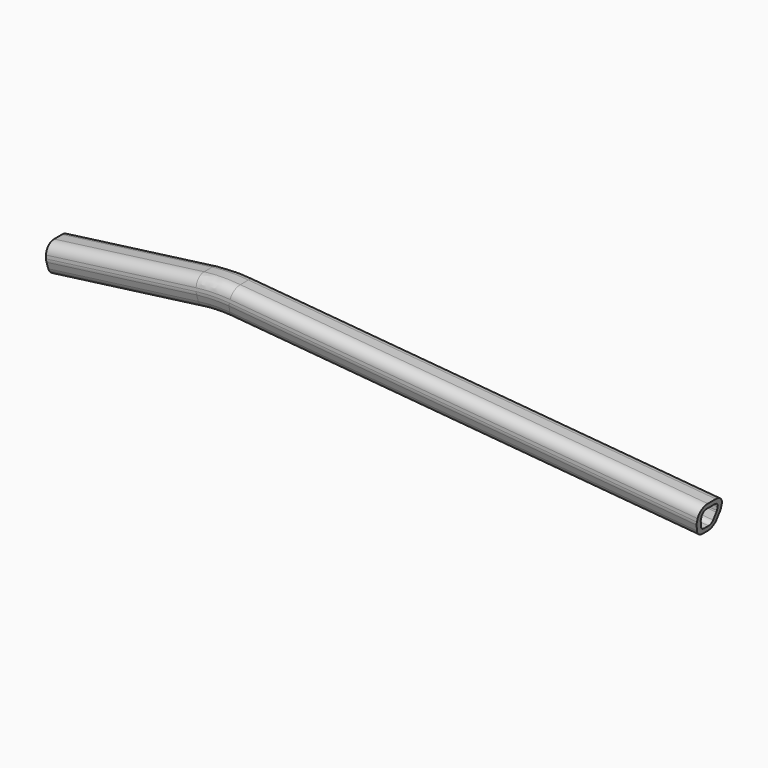
from build123d import *


with BuildPart() as f2:
    # F2: sweep along a path in F0
    with BuildLine(Plane.XZ) as f2_path:
        Line((0, 0), (150, 20))
        ThreePointArc((150, 20), (166.4091739376, 21.2769270288), (182.8594678141, 20.7483787065))
        Line((182.8594678141, 20.7483787065), (650, -20))
    # F1 (on Right) → F2 (sweep)
    with BuildSketch(Plane.YZ):
        with BuildLine():
            ThreePointArc((15, 5), (12.0710678119, 12.0710678119), (5, 15))
            Line((5, 15), (-5, 15))
            ThreePointArc((-5, 15), (-12.0710678119, 12.0710678119), (-15, 5))
            Line((-15, 5), (-15, 1.6227766017))
            ThreePointArc((-15, 1.6227766017), (-14.8708745764, 0.0209541716), (-14.4868329805, -1.5395010585))
            Line((-14.4868329805, -1.5395010585), (-12.2792407799, -8.1622776602))
            ThreePointArc((-12.2792407799, -8.1622776602), (-8.6395106461, -13.1124218518), (-2.7924077994, -15))
            Line((-2.7924077994, -15), (2.7924077994, -15))
            ThreePointArc((2.7924077994, -15), (8.6395106461, -13.1124218518), (12.2792407799, -8.1622776602))
            Line((12.2792407799, -8.1622776602), (14.4868329805, -1.5395010585))
            ThreePointArc((14.4868329805, -1.5395010585), (14.8708745764, 0.0209541716), (15, 1.6227766017))
            Line((15, 1.6227766017), (15, 5))
        make_face()
        with BuildLine():
            ThreePointArc((5, 10), (8.5355339059, 8.5355339059), (10, 5))
            Line((10, 5), (10, 1.6227766017))
            ThreePointArc((10, 1.6227766017), (9.9354372882, 0.8218653866), (9.7434164903, 0.0416377716))
            Line((9.7434164903, 0.0416377716), (7.5358242897, -6.5811388301))
            ThreePointArc((7.5358242897, -6.5811388301), (5.7159592228, -9.0562109259), (2.7924077994, -10))
            Line((2.7924077994, -10), (-2.7924077994, -10))
            ThreePointArc((-2.7924077994, -10), (-5.7159592228, -9.0562109259), (-7.5358242897, -6.5811388301))
            Line((-7.5358242897, -6.5811388301), (-9.7434164903, 0.0416377716))
            ThreePointArc((-9.7434164903, 0.0416377716), (-9.9354372882, 0.8218653866), (-10, 1.6227766017))
            Line((-10, 1.6227766017), (-10, 5))
            ThreePointArc((-10, 5), (-8.5355339059, 8.5355339059), (-5, 10))
            Line((-5, 10), (5, 10))
        make_face(mode=Mode.SUBTRACT)
    sweep(path=f2_path.line)


solid = f2.part
